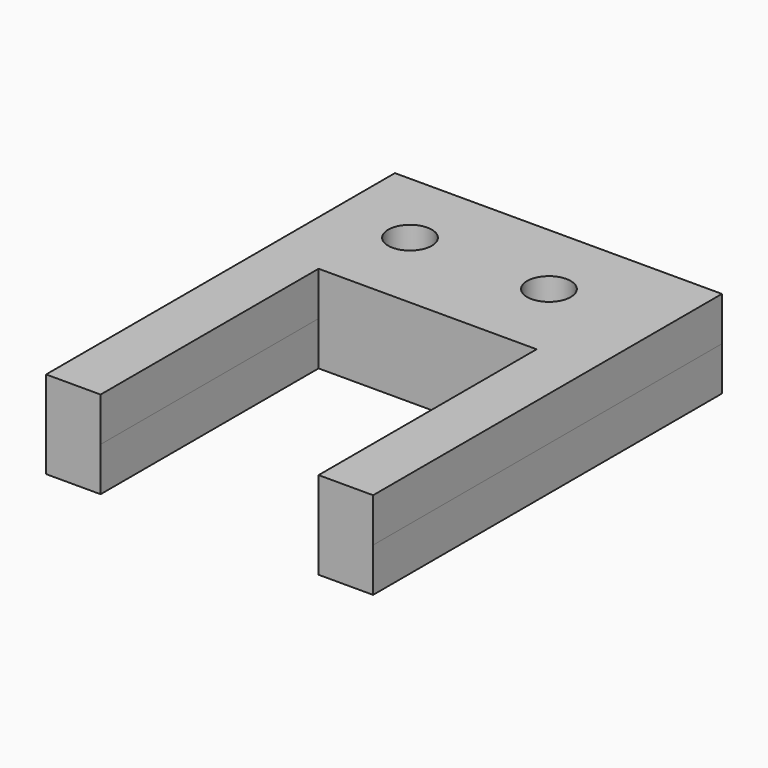
from build123d import *

# Parameters (mm, degrees)
F0_R      = 4
F0_W      = 10
F0_H      = 50
F1_DEPTH  = 8.05
F1_FACE_R = 4
F2_DEPTH  = 8.05


with BuildPart() as f1:
    # F0 (on Top) → F1 (new body)
    with BuildSketch(Plane.XY):
        Polygon((6.859771, 69.7892), (-53.140229, 69.7892), (-53.140229, 39.7892), (-43.140229, 39.7892), (-3.140229, 39.7892), (6.859771, 39.7892), align=None)
        with Locations((-38.927369, 55.491578)):
            Circle(F0_R, mode=Mode.SUBTRACT)
        with Locations((-13.438543, 55.491578)):
            Circle(F0_R, mode=Mode.SUBTRACT)
        with Locations((-48.140229, 14.7892)):
            Rectangle(F0_W, F0_H)
        with Locations((1.859771, 14.7892)):
            Rectangle(F0_W, F0_H)
    extrude(amount=F1_DEPTH)

    # F1_face (on face) → F2 (join)
    with BuildSketch(Plane(origin=(-23.026914, 39.945314, 8.05), x_dir=(1, 0, 0), z_dir=(0, 0, 1))):
        Polygon((29.886686, 29.843886), (-30.113314, 29.843886), (-30.113314, -50.156114), (-20.113314, -50.156114), (-20.113314, -0.156114), (19.886686, -0.156114), (19.886686, -50.156114), (29.886686, -50.156114), align=None)
        with Locations((-15.900455, 15.546264)):
            Circle(F1_FACE_R, mode=Mode.SUBTRACT)
        with Locations((9.588371, 15.546264)):
            Circle(F1_FACE_R, mode=Mode.SUBTRACT)
    extrude(amount=F2_DEPTH)


solid = f1.part
